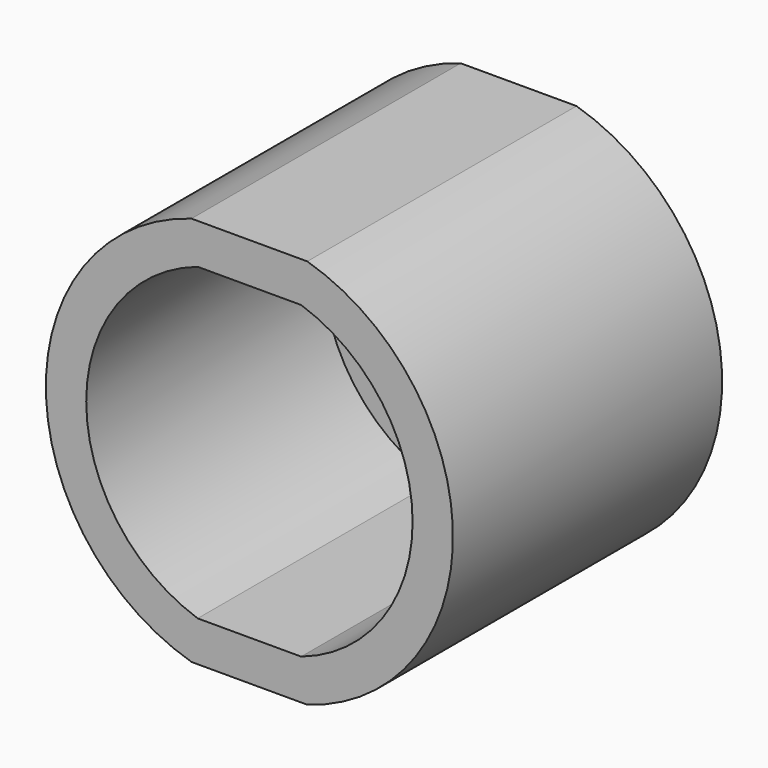
from build123d import *

# Parameters (mm, degrees)
F1_DEPTH = 3
F2_DEPTH = 25


with BuildPart() as f1:
    # F0 (on Front) → F1 (new body)
    with BuildSketch(Plane.XZ):
        with BuildLine():
            ThreePointArc((-4.3029786195, 14.5), (-15.125, 0), (-4.3029786195, -14.5))
            Line((-4.3029786195, -14.5), (4.3029786195, -14.5))
            ThreePointArc((4.3029786195, -14.5), (15.125, 0), (4.3029786195, 14.5))
            Line((4.3029786195, 14.5), (-4.3029786195, 14.5))
        make_face()
        with BuildLine():
            ThreePointArc((-3.8426065372, -11.5), (-12.125, 0), (-3.8426065372, 11.5))
            Line((-3.8426065372, 11.5), (3.8426065372, 11.5))
            ThreePointArc((3.8426065372, 11.5), (12.125, 0), (3.8426065372, -11.5))
            Line((3.8426065372, -11.5), (-3.8426065372, -11.5))
        make_face(mode=Mode.SUBTRACT)
        with BuildLine():
            Line((3.8426065372, 11.5), (-3.8426065372, 11.5))
            ThreePointArc((-3.8426065372, 11.5), (-12.125, 0), (-3.8426065372, -11.5))
            Line((-3.8426065372, -11.5), (3.8426065372, -11.5))
            ThreePointArc((3.8426065372, -11.5), (12.125, 0), (3.8426065372, 11.5))
        make_face()
    extrude(amount=F1_DEPTH)

    # F0 (on Front) → F2 (join)
    with BuildSketch(Plane.XZ):
        with BuildLine():
            ThreePointArc((-4.3029786195, 14.5), (-15.125, 0), (-4.3029786195, -14.5))
            Line((-4.3029786195, -14.5), (4.3029786195, -14.5))
            ThreePointArc((4.3029786195, -14.5), (15.125, 0), (4.3029786195, 14.5))
            Line((4.3029786195, 14.5), (-4.3029786195, 14.5))
        make_face()
        with BuildLine():
            ThreePointArc((-3.8426065372, -11.5), (-12.125, 0), (-3.8426065372, 11.5))
            Line((-3.8426065372, 11.5), (3.8426065372, 11.5))
            ThreePointArc((3.8426065372, 11.5), (12.125, 0), (3.8426065372, -11.5))
            Line((3.8426065372, -11.5), (-3.8426065372, -11.5))
        make_face(mode=Mode.SUBTRACT)
    extrude(amount=F2_DEPTH)


solid = f1.part
